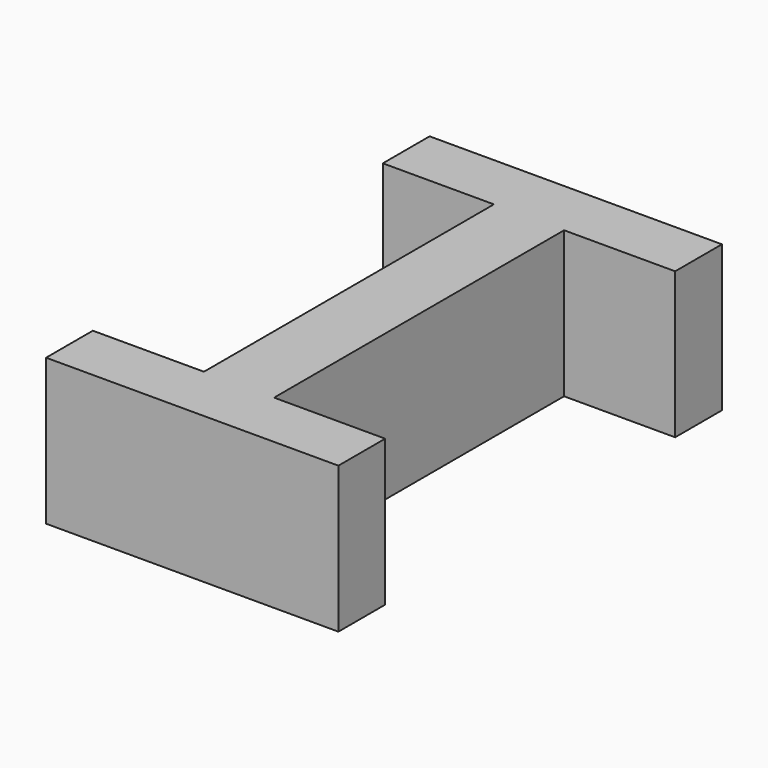
from build123d import *

# Parameters (mm, degrees)
F0_W     = 1.2
F0_H     = 6.2
F1_DEPTH = 2.5


with BuildPart() as f1:
    # F0 (on Top) → F1 (new body)
    with BuildSketch(Plane.XY):
        Polygon((2.5, -3.1), (0.6, -3.1), (-0.6, -3.1), (-2.5, -3.1), (-2.5, -4.1), (2.5, -4.1), align=None)
        Rectangle(F0_W, F0_H)
        Polygon((-0.6, 3.1), (0.6, 3.1), (2.5, 3.1), (2.5, 4.1), (-2.5, 4.1), (-2.5, 3.1), align=None)
    extrude(amount=F1_DEPTH)


solid = f1.part
